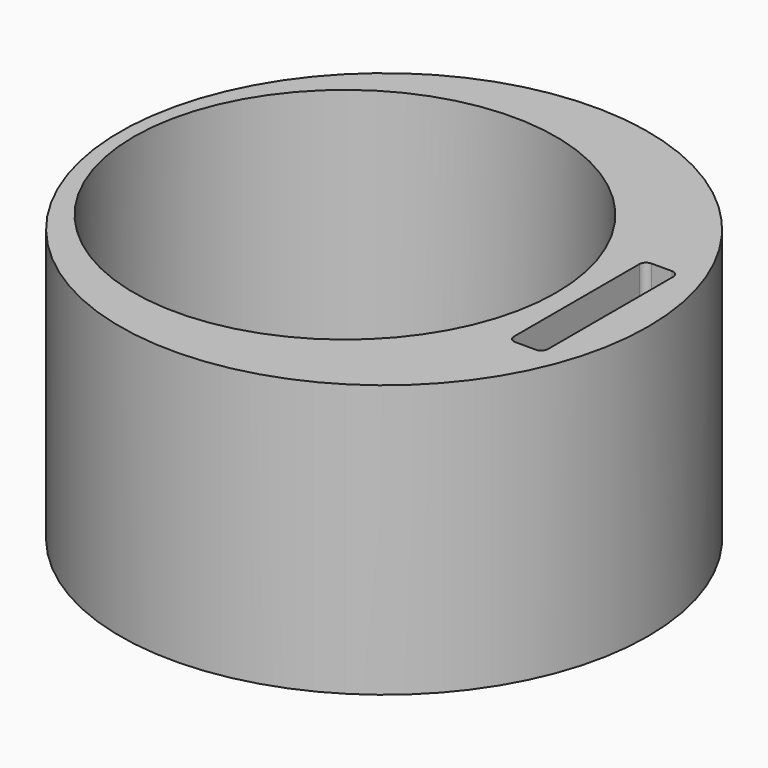
from build123d import *

# Parameters (mm, degrees)
F0_R     = 38.75
F0_R_2   = 31
F1_DEPTH = 40


with BuildPart() as f1:
    # F0 (on Top) → F1 (new body)
    with BuildSketch(Plane.XY):
        Circle(F0_R)
        with Locations((-5.749998, 0.004193)):
            Circle(F0_R_2, mode=Mode.SUBTRACT)
        with BuildLine():
            ThreePointArc((33.258886, -11.5), (32.965992, -12.207107), (32.258886, -12.5))
            Line((32.258886, -12.5), (29.258886, -12.5))
            ThreePointArc((29.258886, -12.5), (28.551779, -12.207107), (28.258886, -11.5))
            Line((28.258886, -11.5), (28.258886, 11.5))
            ThreePointArc((28.258886, 11.5), (28.551779, 12.207107), (29.258886, 12.5))
            Line((29.258886, 12.5), (32.258886, 12.5))
            ThreePointArc((32.258886, 12.5), (32.965992, 12.207107), (33.258886, 11.5))
            Line((33.258886, 11.5), (33.258886, -11.5))
        make_face(mode=Mode.SUBTRACT)
    extrude(amount=F1_DEPTH)


solid = f1.part
